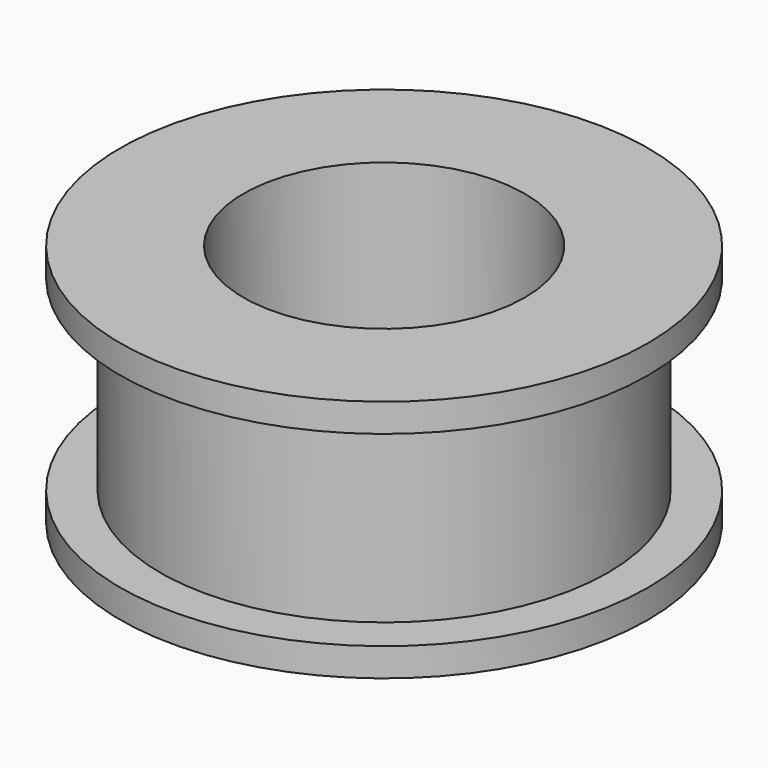
from build123d import *

# Parameters (mm, degrees)
F0_R     = 33.02
F1_DEPTH = 3.55
F2_R     = 28
F3_DEPTH = 23.37
F4_R     = 33.02
F5_DEPTH = 3.55
F6_R     = 17.6022
F7_DEPTH = 30.471


with BuildPart() as f1:
    # F0 (on Top) → F1 (new body)
    with BuildSketch(Plane.XY):
        Circle(F0_R)
    extrude(amount=F1_DEPTH)

    # F2 (on face) → F3 (join)
    with BuildSketch(Plane.XY.offset(3.55)):
        Circle(F2_R)
    extrude(amount=F3_DEPTH)

    # F4 (on face) → F5 (join)
    with BuildSketch(Plane.XY.offset(26.92)):
        Circle(F4_R)
    extrude(amount=F5_DEPTH)

    # F6 (on face) → F7 (cut, through all)
    with BuildSketch(Plane.XY.offset(30.47)):
        Circle(F6_R)
    extrude(amount=-F7_DEPTH, mode=Mode.SUBTRACT)


solid = f1.part
